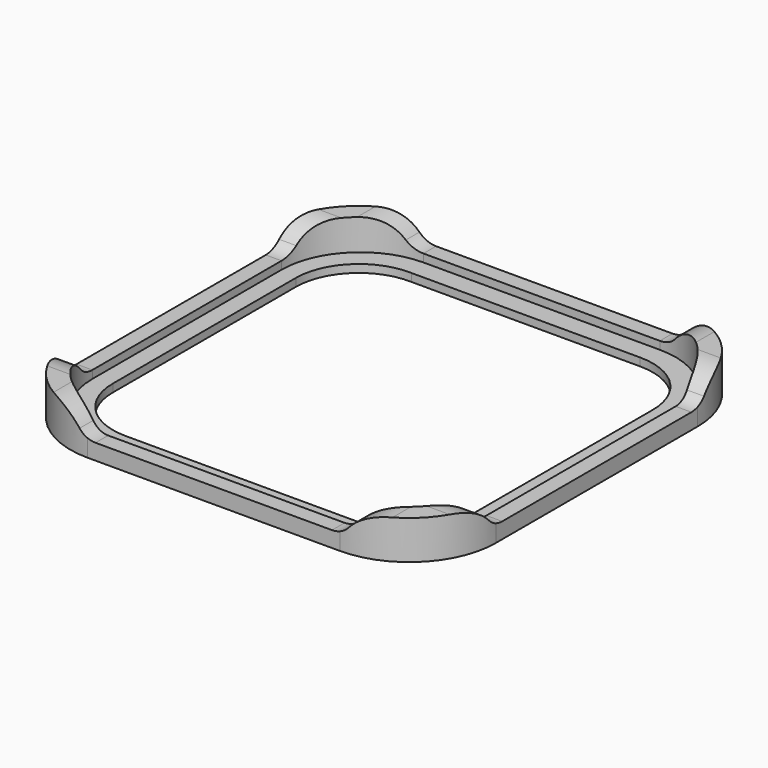
from build123d import *

# Parameters (mm, degrees)
PAD002_DEPTH            = 56.5
BODY002_PLACEMENT_ANGLE = 90
PAD001_DEPTH            = 56.5
PAD_DEPTH               = 30
POCKET_DEPTH            = 28
POCKET001_DEPTH         = 2.001


with BuildPart() as corte_x:
    # Sketch004 → Pad002 (new body, symmetric)
    with BuildSketch(Plane.XZ):
        with BuildLine():
            Line((-58, 39.856555), (58, 39.856555))
            Line((58, 39.856555), (58, 9.856555))
            Line((58, 9.856555), (43, 9.856555))
            ThreePointArc((43, 9.856555), (38.129956, 8.810207), (34.119481, 5.855844))
            ThreePointArc((30, 4), (32.259108, 4.485378), (34.119481, 5.855844))
            Line((-30, 4), (30, 4))
            ThreePointArc((-34.119481, 5.855844), (-32.259108, 4.485378), (-30, 4))
            ThreePointArc((-34.119481, 5.855844), (-38.129956, 8.810207), (-43, 9.856555))
            Line((-58, 9.856555), (-43, 9.856555))
            Line((-58, 39.856555), (-58, 9.856555))
        make_face()
    extrude(amount=PAD002_DEPTH, both=True)


with BuildPart() as corte_x_1:
    # Body002 placement: moved
    add(corte_x.part.rotate(Axis((0, 0, 0), (0, 0, 1)), BODY002_PLACEMENT_ANGLE))


with BuildPart() as fusion:
    # Sketch003 → Pad001 (new body, symmetric)
    with BuildSketch(Plane.XZ):
        with BuildLine():
            Line((-58, 39.856555), (58, 39.856555))
            Line((58, 39.856555), (58, 9.856555))
            Line((58, 9.856555), (43, 9.856555))
            ThreePointArc((43, 9.856555), (38.129956, 8.810207), (34.119481, 5.855844))
            ThreePointArc((30, 4), (32.259108, 4.485378), (34.119481, 5.855844))
            Line((-30, 4), (30, 4))
            ThreePointArc((-34.119481, 5.855844), (-32.259108, 4.485378), (-30, 4))
            ThreePointArc((-34.119481, 5.855844), (-38.129956, 8.810207), (-43, 9.856555))
            Line((-58, 9.856555), (-43, 9.856555))
            Line((-58, 39.856555), (-58, 9.856555))
        make_face()
    extrude(amount=PAD001_DEPTH, both=True)

    # Fusion: union Corte X
    add(corte_x_1.part)


with BuildPart() as cut:
    # Sketch → Pad (new body)
    with BuildSketch(Plane.XY):
        with BuildLine():
            Line((-32, 54), (32, 54))
            ThreePointArc((54, 32), (47.556349, 47.556349), (32, 54))
            Line((54, 32), (54, -32))
            ThreePointArc((32, -54), (47.556349, -47.556349), (54, -32))
            Line((32, -54), (-32, -54))
            ThreePointArc((-54, -32), (-47.556349, -47.556349), (-32, -54))
            Line((-54, -32), (-54, 32))
            ThreePointArc((-32, 54), (-47.556349, 47.556349), (-54, 32))
        make_face()
    extrude(amount=PAD_DEPTH)

    # Sketch001 (on Face10 of Pad) → Pocket (cut)
    with BuildSketch(Plane.XY.offset(30)):
        with BuildLine():
            Line((-30, 50), (30, 50))
            ThreePointArc((50, 30), (44.142136, 44.142136), (30, 50))
            Line((50, 30), (50, -30))
            ThreePointArc((30, -50), (44.142136, -44.142136), (50, -30))
            Line((30, -50), (-30, -50))
            ThreePointArc((-50, -30), (-44.142136, -44.142136), (-30, -50))
            Line((-50, -30), (-50, 30))
            ThreePointArc((-30, 50), (-44.142136, 44.142136), (-50, 30))
        make_face()
    extrude(amount=-POCKET_DEPTH, mode=Mode.SUBTRACT)

    # Sketch002 (on Face19 of Pocket) → Pocket001 (cut, through all)
    with BuildSketch(Plane.XY.offset(2)):
        with BuildLine():
            Line((-29, 44.989147), (29, 44.989147))
            ThreePointArc((45, 28.989147), (40.313708, 40.302855), (29, 44.989147))
            Line((45, 28.989147), (45, -29))
            ThreePointArc((29, -45), (40.313708, -40.313708), (45, -29))
            Line((29, -45), (-29.589223, -45))
            ThreePointArc((-45.589223, -29), (-40.902931, -40.313708), (-29.589223, -45))
            Line((-45.589223, -29), (-45.589223, 29))
            ThreePointArc((-29, 44.989147), (-40.692655, 40.520147), (-45.589223, 29))
        make_face()
    extrude(amount=-POCKET001_DEPTH, mode=Mode.SUBTRACT)

    # Cut: cut Fusion
    add(fusion.part, mode=Mode.SUBTRACT)


solid = cut.part
